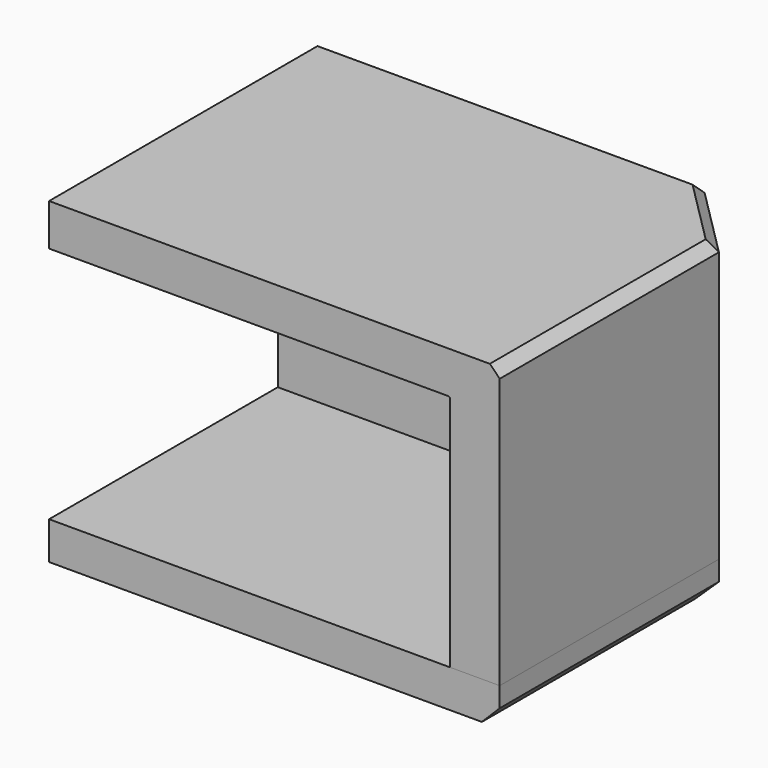
from build123d import *

# Parameters (mm, degrees)
F0_W      = 4.54
F0_H      = 3.48
F1_DEPTH  = 1.41106
F2_SIZE   = 0.36
F3_SIZE2  = 0.05
F3_SIZE   = 0.05
F5_DEPTH  = 4.541
F7_DEPTH  = 1.2
F8_R      = 0.01
F10_DEPTH = 0.19
F11_SIZE  = 0.09
F13_DEPTH = 25


with BuildPart() as f1:
    # F0 (on Top) → F1 (new body)
    with BuildSketch(Plane.XY):
        Rectangle(F0_W, F0_H)
    extrude(amount=-F1_DEPTH)

    # F2
    f2_edges = [f1.edges().sort_by_distance(p)[0] for p in [
        (-2.27, 1.74, -0.70553),
        (-2.27, -1.74, -0.70553),
        (2.27, 1.74, -0.70553),
        (2.27, -1.74, -0.70553),
    ]]
    chamfer(f2_edges, length=F2_SIZE)

    # F3
    f3_edges = [f1.edges().sort_by_distance(p)[0] for p in [
        (-2.27, 0, 0),
        (-2.09, 1.56, 0),
        (0, 1.74, 0),
        (2.09, 1.56, 0),
        (2.27, 0, 0),
        (2.09, -1.56, 0),
        (0, -1.74, 0),
        (-2.09, -1.56, 0),
    ]]
    chamfer(f3_edges, length=F3_SIZE, length2=F3_SIZE2)

    # F4 (on face) → F5 (cut, through all)
    with BuildSketch(Plane.YZ.offset(2.27)):
        with BuildLine():
            Line((-1.72, -0.6), (-1.74, -0.6))
            Line((-1.74, -0.6), (-1.74, -0.81106))
            Line((-1.74, -0.81106), (-1.72, -0.81106))
            ThreePointArc((-1.72, -0.81106), (-1.6987867966, -0.8022732034), (-1.69, -0.78106))
            Line((-1.69, -0.78106), (-1.69, -0.63))
            ThreePointArc((-1.69, -0.63), (-1.6987867966, -0.6087867966), (-1.72, -0.6))
        make_face()
        with BuildLine():
            Line((1.74, -0.81106), (1.74, -0.6))
            Line((1.74, -0.6), (1.72, -0.6))
            ThreePointArc((1.72, -0.6), (1.6987867966, -0.6087867966), (1.69, -0.63))
            Line((1.69, -0.63), (1.69, -0.78106))
            ThreePointArc((1.69, -0.78106), (1.6987867966, -0.8022732034), (1.72, -0.81106))
            Line((1.72, -0.81106), (1.74, -0.81106))
        make_face()
    extrude(amount=-F5_DEPTH, mode=Mode.SUBTRACT)

    # F6 (on face) → F7 (cut)
    with BuildSketch(Plane(origin=(0, 0, -1.41106), x_dir=(1, 0, 0), z_dir=(0, 0, -1))):
        with BuildLine():
            Line((1.72, 1.44), (-1.72, 1.44))
            ThreePointArc((-1.72, 1.44), (-1.9321320344, 1.3521320344), (-2.02, 1.14))
            Line((-2.02, 1.14), (-2.02, -1.14))
            ThreePointArc((-2.02, -1.14), (-1.9321320344, -1.3521320344), (-1.72, -1.44))
            Line((-1.72, -1.44), (1.72, -1.44))
            ThreePointArc((1.72, -1.44), (1.9321320344, -1.3521320344), (2.02, -1.14))
            Line((2.02, -1.14), (2.02, 1.14))
            ThreePointArc((2.02, 1.14), (1.9321320344, 1.3521320344), (1.72, 1.44))
        make_face()
    extrude(amount=-F7_DEPTH, mode=Mode.SUBTRACT)

    # F8
    f8_edges = [f1.edges().sort_by_distance(p)[0] for p in [
        (0, 1.44, -0.21106),
        (1.932132, 1.352132, -0.21106),
        (2.02, 0, -0.21106),
        (-1.932132, 1.352132, -0.21106),
        (1.932132, -1.352132, -0.21106),
        (0, -1.44, -0.21106),
        (-1.932132, -1.352132, -0.21106),
        (-2.02, 0, -0.21106),
    ]]
    fillet(f8_edges, radius=F8_R)


with BuildPart() as f10:
    # F9 (on face) → F10 (new body)
    with BuildSketch(Plane(origin=(0, 0, -1.41106), x_dir=(1, 0, 0), z_dir=(0, 0, -1))):
        Polygon((1.91, 1.74), (-1.91, 1.74), (-2.27, 1.38), (-2.27, -1.38), (-1.91, -1.74), (1.91, -1.74), (2.27, -1.38), (2.27, 1.38), align=None)
    extrude(amount=F10_DEPTH)

    # F11
    f11_edges = [f10.edges().sort_by_distance(p)[0] for p in [
        (-2.27, 0, -1.60106),
        (-2.09, -1.56, -1.60106),
        (0, -1.74, -1.60106),
        (2.09, -1.56, -1.60106),
        (2.27, 0, -1.60106),
        (2.09, 1.56, -1.60106),
        (0, 1.74, -1.60106),
        (-2.09, 1.56, -1.60106),
    ]]
    chamfer(f11_edges, length=F11_SIZE)


with BuildPart() as f13_tool:
    # F12 (on face) → F13 (new body)
    with BuildSketch(Plane.XY):
        Polygon((2.9397751205, 0), (0, 0), (0, 1.8302858807), (-2.3903283291, 1.8302858807), (-2.3903283291, -2.3388734553), (2.9397751205, -2.3388734553), align=None)
    extrude(amount=-F13_DEPTH)


with BuildPart() as f1_1:
    add(f1.part)

    # F13: cut by f13_tool
    add(f13_tool.part, mode=Mode.SUBTRACT)


with BuildPart() as f10_1:
    add(f10.part)

    # F13: cut by f13_tool
    add(f13_tool.part, mode=Mode.SUBTRACT)


solid = Compound([f1_1.part, f10_1.part])
